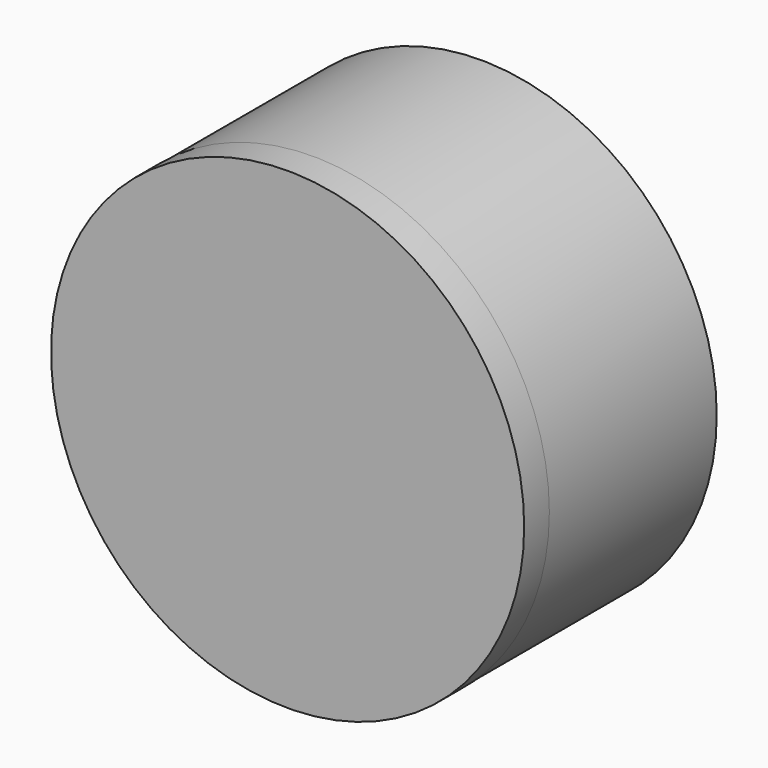
from build123d import *

# Parameters (mm, degrees)
F0_R     = 22.5
F0_R_2   = 20
F1_DEPTH = 20
F2_R     = 22.5489054278
F3_DEPTH = 3
F4_R     = 4.5
F5_DEPTH = 12


with BuildPart() as f1:
    # F0 (on Front) → F1 (new body)
    with BuildSketch(Plane.XZ):
        Circle(F0_R)
        Circle(F0_R_2, mode=Mode.SUBTRACT)
    extrude(amount=F1_DEPTH)

    # F2 (on face) → F3 (join)
    with BuildSketch(Plane.XZ.offset(20)):
        Circle(F2_R)
    extrude(amount=F3_DEPTH)

    # F4 (on face) → F5 (join)
    with BuildSketch(Plane(origin=(0, -20, 0), x_dir=(-1, 0, 0), z_dir=(0, 1, 0))):
        Circle(F4_R)
        with BuildLine():
            ThreePointArc((0, 3), (2.1213203436, 2.1213203436), (3, 0))
            ThreePointArc((3, 0), (2.8649192185, -0.8900774526), (2.4718414189, -1.7))
            ThreePointArc((2.4718414189, -1.7), (0, -3), (-2.4718414189, -1.7))
            ThreePointArc((-2.4718414189, -1.7), (-2.6551836095, 1.3964240044), (0, 3))
        make_face(mode=Mode.SUBTRACT)
        with BuildLine():
            ThreePointArc((-2.4718414189, -1.7), (0, -3), (2.4718414189, -1.7))
            Line((2.4718414189, -1.7), (0, -1.7))
            Line((0, -1.7), (-2.4718414189, -1.7))
        make_face()
    extrude(amount=F5_DEPTH)


solid = f1.part
